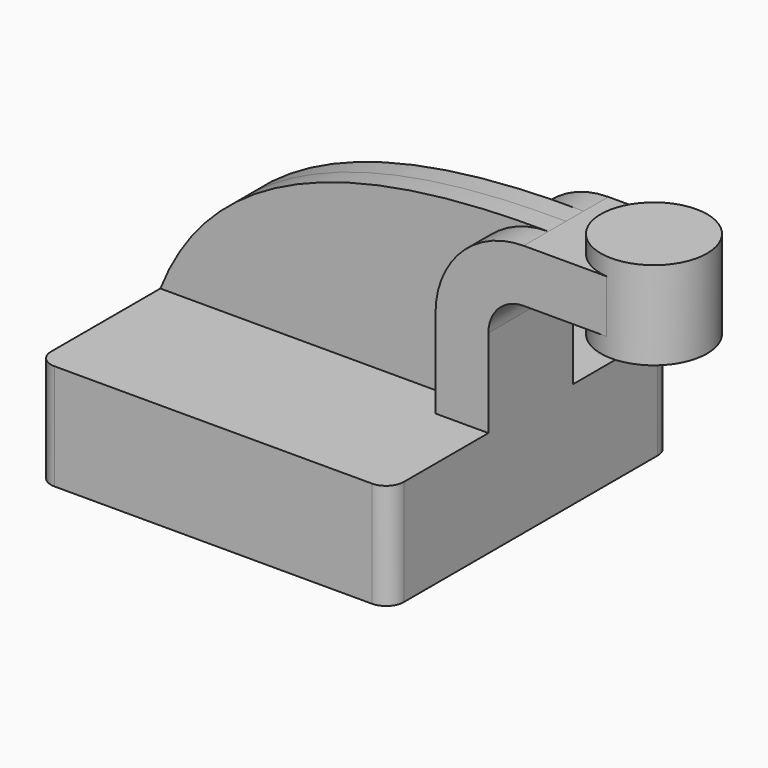
from build123d import *

# Parameters (mm, degrees)
F1_DEPTH = 63.5
F0_W     = 18.9613934278
F0_H     = 19.05
F2_DEPTH = 19.05
F3_DEPTH = 7.9375
F5_R     = 6.35


with BuildPart() as f1:
    # F0 (on Front) → F1 (new body, symmetric)
    with BuildSketch(Plane.XZ):
        Polygon((63.5, -19.05), (63.5, 19.05), (44.45, 19.05), (-63.5, 19.05), (-63.5, -19.05), align=None)
    extrude(amount=F1_DEPTH, both=True)

    # F0 (on Front) → F2 (join, symmetric)
    with BuildSketch(Plane.XZ):
        with Locations((98.3806967139, 73.025)):
            Rectangle(F0_W, F0_H)
        with BuildLine():
            Line((44.45, 19.05), (63.5, 19.05))
            Line((63.5, 19.05), (63.5, 50.8))
            ThreePointArc((63.5, 50.8), (67.2197438789, 59.7802561211), (76.2, 63.5))
            Line((76.2, 63.5), (88.9, 63.5))
            Line((88.9, 63.5), (88.9, 82.55))
            Line((88.9, 82.55), (76.2, 82.55))
            ThreePointArc((76.2, 82.55), (53.7493596973, 73.2506403027), (44.45, 50.8))
            Line((44.45, 50.8), (44.45, 19.05))
        make_face()
    extrude(amount=F2_DEPTH, both=True)

    # F0 (on Front) → F3 (join, symmetric)
    with BuildSketch(Plane.XZ):
        with BuildLine():
            Line((-63.5, 19.05), (44.45, 19.05))
            Line((44.45, 19.05), (44.45, 50.8))
            ThreePointArc((44.45, 50.8), (53.7493596973, 73.2506403027), (76.2, 82.55))
            add(Edge.make_bspline(
                [(-63.5, 19.05), (-43.5108728707, 70.1786652207), (14.7244036198, 83.1460282207), (76.2, 82.55)],
                knots=[0, 0, 0, 0, 153.4546838647, 153.4546838647, 153.4546838647, 153.4546838647], degree=3))
        make_face()
    extrude(amount=F3_DEPTH, both=True)

    # F0 (on Front) → F4 (revolve)
    with BuildSketch(Plane.XZ):
        Polygon((107.8613934278, 82.55), (107.8613934278, 63.5), (107.8613934278, 57.15), (127, 57.15), (127, 88.9), (107.8613934278, 88.9), align=None)
    revolve(axis=Axis((107.8613934278, 0, 73.025), (0, 0, 1)))

    # F5
    f5_edges = [f1.edges().sort_by_distance(p)[0] for p in [
        (-63.5, 63.5, 0),
        (-63.5, -63.5, 0),
        (63.5, -63.5, 0),
        (63.5, 63.5, 0),
    ]]
    fillet(f5_edges, radius=F5_R)


solid = f1.part
